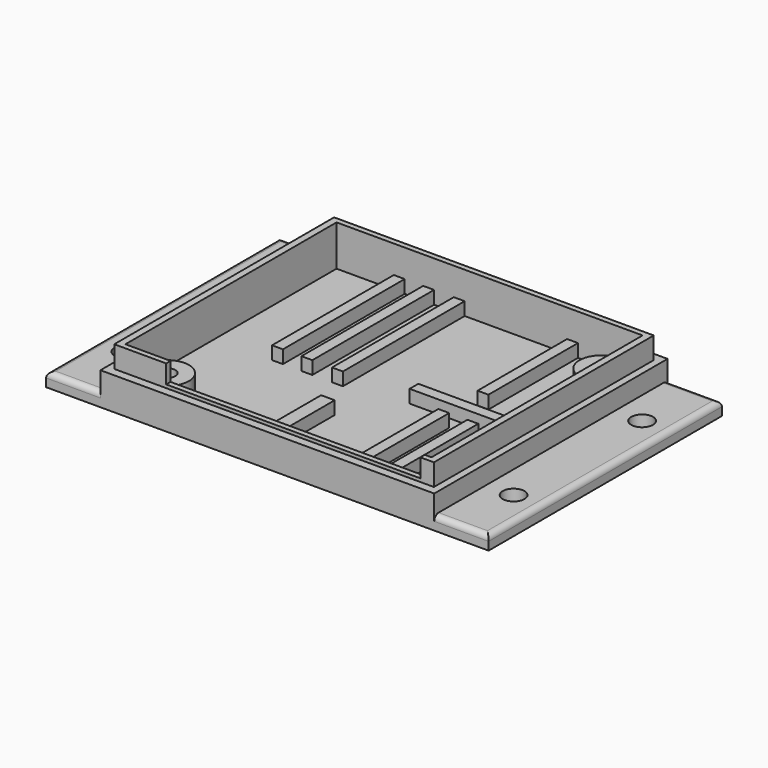
from build123d import *

# Parameters (mm, degrees)
F0_W      = 56.2999993563
F0_H      = 48.5499993563
F0_R      = 4.025
F1_DEPTH  = 2.5
F0_R_2    = 2.86
F0_R_3    = 1.525
F2_DEPTH  = 5
F0_W_2    = 58.7999993563
F0_H_2    = 50.5499993563
F3_DEPTH  = 10
F0_W_3    = 61.3999993563
F0_H_3    = 53.6499993563
F4_DEPTH  = 6
F5_DEPTH  = 3.5
F6_W      = 53.6499993563
F6_H      = 2.5
F8_DEPTH  = 10
F7_W      = 53.6499993563
F7_H      = 2.5
F9_DEPTH  = 10
F10_R     = 2
F11_R     = 2
F12_DEPTH = 2.5
F13_W     = 46.75
F13_H     = 1
F13_H_2   = 1.5
F14_DEPTH = 3.4
F15_W     = 2
F15_H     = 28
F15_H_2   = 20.5807207916
F15_W_2   = 21.8790904619
F15_H_3   = 2
F15_H_4   = 20
F15_W_3   = 2.5
F15_H_5   = 12.8300296441
F16_DEPTH = 2.4
F17_R     = 1


with BuildPart() as f1:
    # F0 (on Top) → F1 (new body)
    with BuildSketch(Plane.XY):
        Rectangle(F0_W, F0_H)
        with Locations((-23.88, -20.035)):
            Circle(F0_R, mode=Mode.SUBTRACT)
        with Locations((23.91, 20.085)):
            Circle(F0_R, mode=Mode.SUBTRACT)
    extrude(amount=F1_DEPTH)

    # F0 (on Top) → F2 (join)
    with BuildSketch(Plane.XY):
        with Locations((-23.88, -20.035)):
            Circle(F0_R)
        with Locations((-23.88, -20.035)):
            Circle(F0_R_2, mode=Mode.SUBTRACT)
        with Locations((-23.88, -20.035)):
            Circle(F0_R_2)
        with Locations((-23.88, -20.035)):
            Circle(F0_R_3, mode=Mode.SUBTRACT)
        with Locations((23.91, 20.085)):
            Circle(F0_R)
        with Locations((23.91, 20.085)):
            Circle(F0_R_2, mode=Mode.SUBTRACT)
        with Locations((23.91, 20.085)):
            Circle(F0_R_2)
        with Locations((23.91, 20.085)):
            Circle(F0_R_3, mode=Mode.SUBTRACT)
    extrude(amount=F2_DEPTH)

    # F0 (on Top) → F3 (join)
    with BuildSketch(Plane.XY):
        Rectangle(F0_W_2, F0_H_2)
        Rectangle(F0_W, F0_H, mode=Mode.SUBTRACT)
    extrude(amount=F3_DEPTH)

    # F0 (on Top) → F4 (join)
    with BuildSketch(Plane.XY):
        Rectangle(F0_W_3, F0_H_3)
        Rectangle(F0_W_2, F0_H_2, mode=Mode.SUBTRACT)
    extrude(amount=F4_DEPTH)

    # F0 (on Top) → F5 (cut)
    with BuildSketch(Plane.XY):
        with Locations((-23.88, -20.035)):
            Circle(F0_R_2)
        with Locations((-23.88, -20.035)):
            Circle(F0_R_3, mode=Mode.SUBTRACT)
        with Locations((23.91, 20.085)):
            Circle(F0_R_2)
        with Locations((23.91, 20.085)):
            Circle(F0_R_3, mode=Mode.SUBTRACT)
    extrude(amount=F5_DEPTH, mode=Mode.SUBTRACT)

    # F6 (on face) → F8 (join)
    with BuildSketch(Plane(origin=(-30.6999996781, 0, 0), x_dir=(0, -1, 0), z_dir=(-1, 0, 0))):
        with Locations((0, 1.25)):
            Rectangle(F6_W, F6_H)
    extrude(amount=F8_DEPTH)

    # F7 (on face) → F9 (join)
    with BuildSketch(Plane.YZ.offset(30.6999996781)):
        with Locations((0, 1.25)):
            Rectangle(F7_W, F7_H)
    extrude(amount=F9_DEPTH)

    # F10 (on face) + F11 (on face) → F12 (cut)
    with BuildSketch(Plane.XY.offset(2.5)):
        with Locations((-35.6999996781, 14.8249996781)):
            Circle(F10_R)
        with Locations((-35.6999996781, -14.8249996781)):
            Circle(F10_R)
    with BuildSketch(Plane.XY.offset(2.5)):
        with Locations((35.6999996781, 14.7250003219)):
            Circle(F11_R)
        with Locations((35.6999996781, -14.8249996781)):
            Circle(F11_R)
    extrude(amount=-F12_DEPTH, mode=Mode.SUBTRACT)

    # F13 (on face) → F14 (cut)
    with BuildSketch(Plane.XY.offset(10)):
        with Locations((3.5249996781, -24.7749996781)):
            Rectangle(F13_W, F13_H)
        with Locations((3.5249996781, -26.0249996781)):
            Rectangle(F13_W, F13_H_2)
    extrude(amount=-F14_DEPTH, mode=Mode.SUBTRACT)

    # F15 (on face) → F16 (join)
    with BuildSketch(Plane.XY.offset(2.5)):
        with Locations((-16.6158268005, 10.2749996781)):
            Rectangle(F15_W, F15_H)
        with Locations((-11.205850333, 10.2749996781)):
            Rectangle(F15_W, F15_H)
        with Locations((-5.5801804885, 10.2749996781)):
            Rectangle(F15_W, F15_H)
        with Locations((15.2583353445, 13.9846392823)):
            Rectangle(F15_W, F15_H_2)
        with Locations((17.2104544472, -0.9468855462)):
            Rectangle(F15_W_2, F15_H_3)
        with Locations((14.4178884327, -14.2749996781)):
            Rectangle(F15_W, F15_H_4)
        with Locations((19.7637628987, -14.2749996781)):
            Rectangle(F15_W, F15_H_4)
        with Locations((24.7685218453, -14.2749996781)):
            Rectangle(F15_W, F15_H_4)
        with Locations((-1.164972987, -17.8599848561)):
            Rectangle(F15_W_3, F15_H_5)
    extrude(amount=F16_DEPTH)

    # F17
    f17_edges = [f1.edges().sort_by_distance(p)[0] for p in [
        (-40.7, 0, 2.5),
        (40.7, 0, 2.5),
        (-35.7, 26.825, 2.5),
        (-35.7, -26.825, 2.5),
        (35.7, -26.825, 2.5),
        (35.7, 26.825, 2.5),
    ]]
    fillet(f17_edges, radius=F17_R)


solid = f1.part
